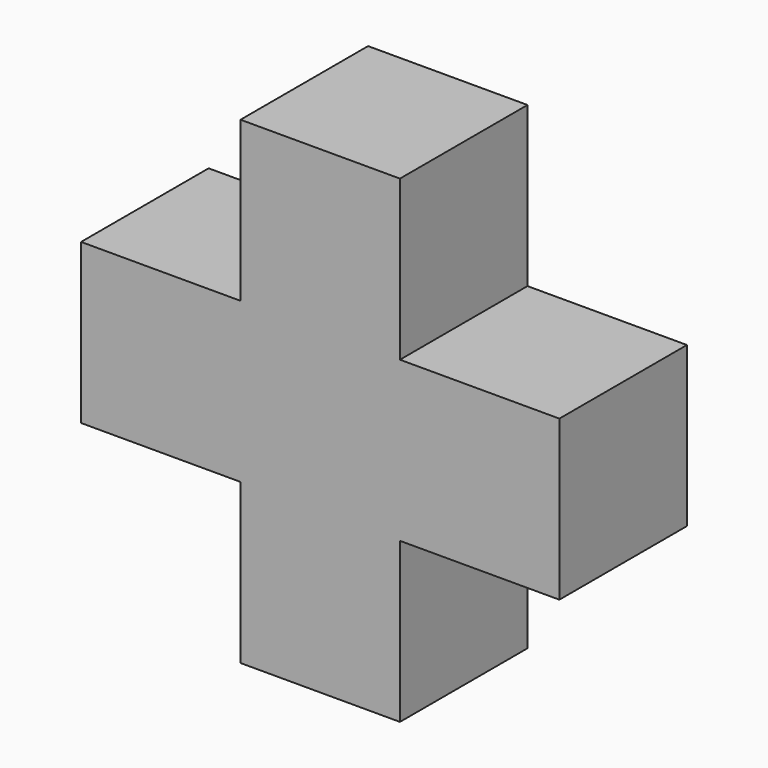
from build123d import *

# Parameters (mm, degrees)
F0_W     = 19.05
F0_H     = 19.05
F1_DEPTH = 19.05


with BuildPart() as f1:
    # F0 (on Front) → F1 (new body)
    with BuildSketch(Plane.XZ):
        with Locations((-9.525, 9.525)):
            Rectangle(F0_W, F0_H)
        Polygon((0, 0), (-19.05, 0), (-38.1, 0), (-38.1, -19.05), (-19.05, -19.05), (-19.05, -38.1), (0, -38.1), (0, -19.05), (19.05, -19.05), (19.05, 0), align=None)
    extrude(amount=F1_DEPTH)


solid = f1.part
